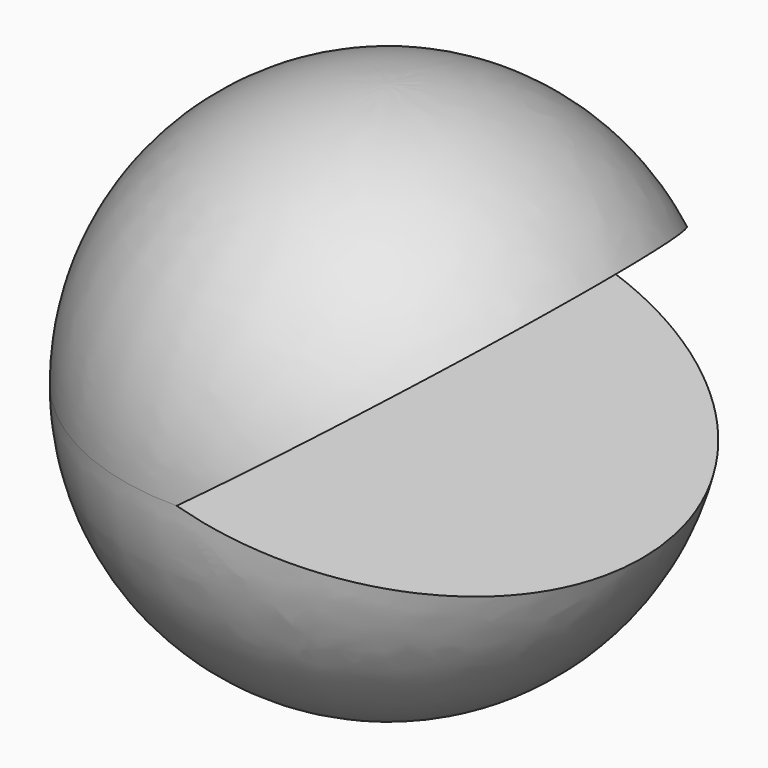
from build123d import *

# Parameters (mm, degrees)
F3_DEPTH = 50.8


with BuildPart() as f1:
    # F0 (on Front) → F1 (revolve)
    with BuildSketch(Plane.XZ):
        with BuildLine():
            ThreePointArc((0, -44.830359), (31.699851, -31.699851), (44.830359, 0))
            ThreePointArc((44.830359, 0), (31.699851, 31.699851), (0, 44.830359))
            Line((0, 44.830359), (0, -44.830359))
        make_face()
    revolve(axis=Axis((0, 0, -6.361648), (0, 0, -1)))

    # F2 (on Front) → F3 (cut, symmetric)
    with BuildSketch(Plane.XZ):
        Polygon((45.515709, -12.682158), (47.266316, 35.089511), (0, 0), align=None)
    extrude(amount=F3_DEPTH, both=True, mode=Mode.SUBTRACT)


solid = f1.part
